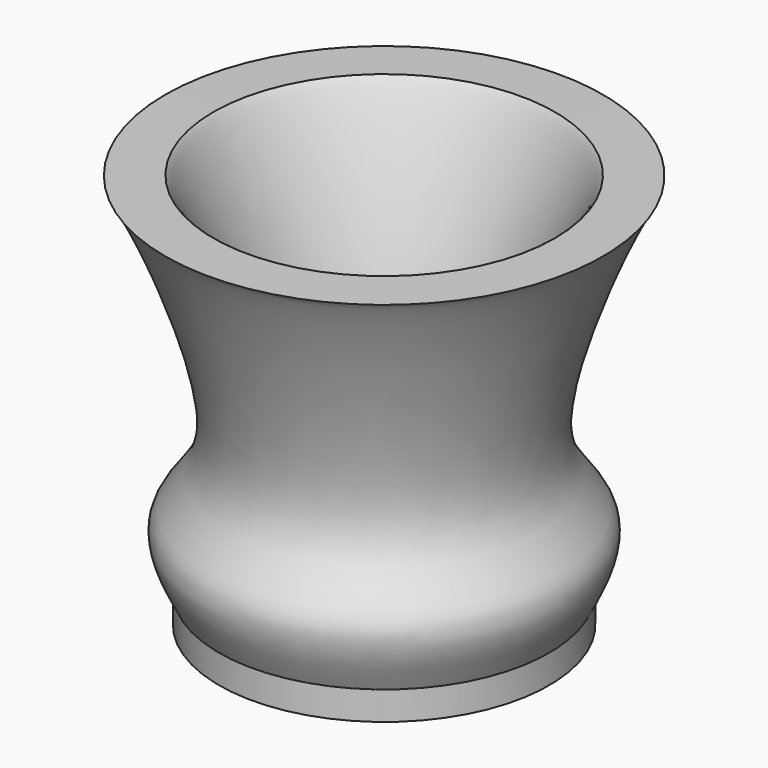
from build123d import *


with BuildPart() as f1:
    # F0 (on Front) → F1 (revolve)
    with BuildSketch(Plane.XZ):
        with BuildLine():
            add(Edge.make_bspline(
                [(-35.0147932768, 0), (-37.4634319109, 4.8368983882), (-42.7291387509, 15.2384695191), (-21.6225706668, 26.2662494757), (-44.4626013006, 75.9879487863), (-46.4363805635, 77.7716507864)],
                knots=[0, 0, 0, 0, 0.2395673788, 0.5151807898, 0.9578898823, 0.9578898823, 0.9578898823, 0.9578898823], degree=3))
            Line((-35.0147932768, 0), (-35.0147932768, -6.0617593117))
            Line((-35.0147932768, -6.0617593117), (0, -6.0617593117))
            Line((0, -6.0617593117), (0, 0))
            Line((0, 0), (-24.7147958726, 0))
            add(Edge.make_bspline(
                [(-24.7147958726, 0), (-27.1634345067, 4.8368983882), (-32.4291413467, 15.2384695191), (-11.132741323, 26.3654330498), (-34.7160322173, 77.1865908991), (-36.2376665324, 77.8426676989)],
                knots=[0, 0, 0, 0, 0.2395673788, 0.5151807898, 0.9665051197, 0.9665051197, 0.9665051197, 0.9665051197], degree=3))
            Line((-36.2376665324, 77.8426676989), (-36.327380117, 77.8420429944))
            Line((-36.327380117, 77.8420429944), (-46.4363805635, 77.7716507864))
        make_face()
    revolve(axis=Axis((0, 0, 10.282183066), (0, 0, 1)))


solid = f1.part
